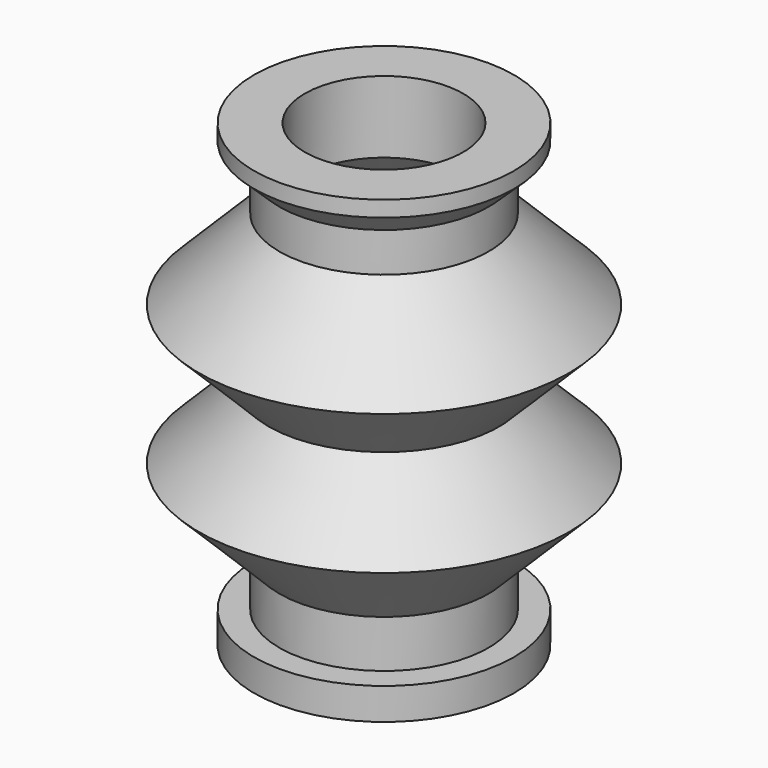
from build123d import *


with BuildPart() as f1:
    # F0 (on Front) → F1 (revolve)
    with BuildSketch(Plane.XZ):
        Polygon((-2.5, 4.984315), (-2.5, 7.25), (-4.1, 7.25), (-4.1, 6.75), (-3.3, 5.992495), (-3.3, 4.75), (-5.842938, 2.207062), (-3.635877, 0), (-5.842938, -2.207062), (-3.3, -4.75), (-3.3, -6.25), (-4.1, -6.25), (-4.1, -7.25), (-2.5, -7.25), (-2.5, -4.984315), (-5.277253, -2.207062), (-3.070191, 0), (-5.277253, 2.207062), align=None)
    revolve(axis=Axis((0, 0, -0.799421), (0, 0, -1)))


solid = f1.part
